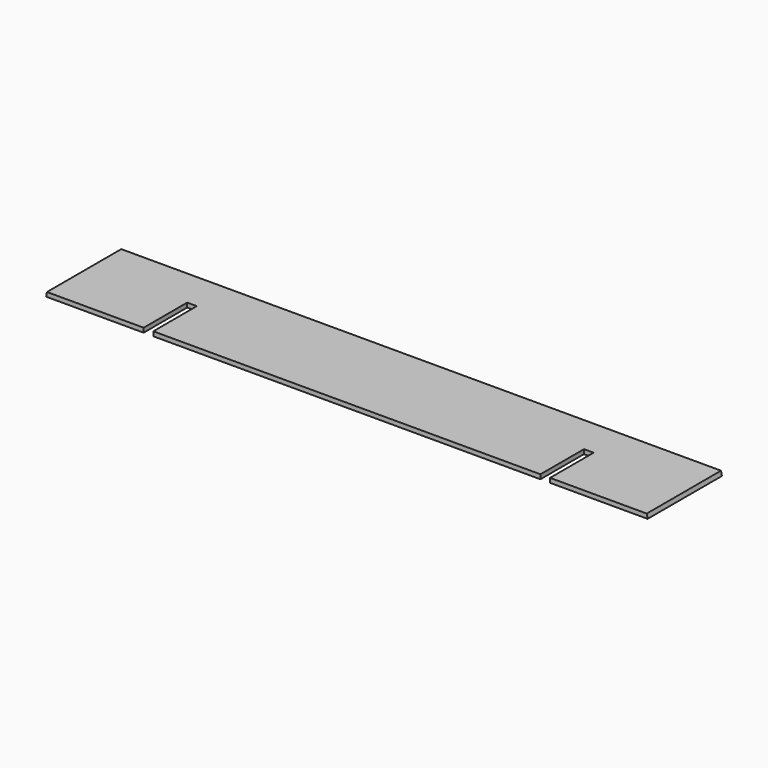
from build123d import *

# Parameters (mm, degrees)
F1_DEPTH = 368.3
F2_W     = 38.1
F2_H     = 215.9
F3_DEPTH = 17.4762


with BuildPart() as f1:
    # F0 (on Front) → F1 (new body)
    with BuildSketch(Plane.XZ):
        Polygon((-1189.039383, 17.4752), (-1192.515417, 0), (1192.515417, 0), (1189.039383, 17.4752), align=None)
    extrude(amount=F1_DEPTH)

    # F2 (on face) → F3 (cut, through all)
    with BuildSketch(Plane(origin=(0, 0, 0), x_dir=(1, 0, 0), z_dir=(0, 0, -1))):
        with Locations((-786.623417, 260.35)):
            Rectangle(F2_W, F2_H)
        with Locations((786.623417, 260.35)):
            Rectangle(F2_W, F2_H)
    extrude(amount=-F3_DEPTH, mode=Mode.SUBTRACT)


solid = f1.part
